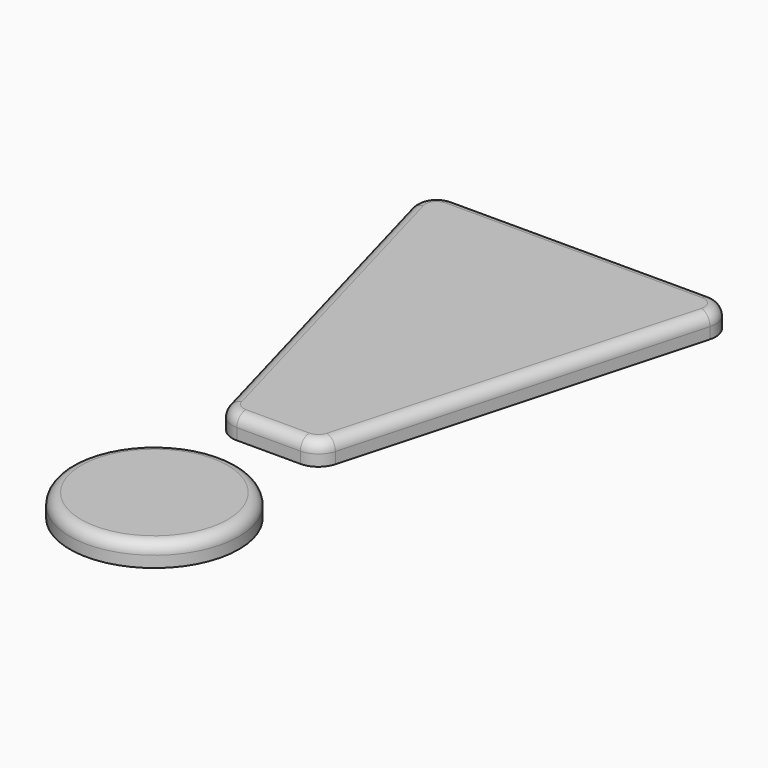
from build123d import *

# Parameters (mm, degrees)
F0_R     = 7.5
F1_DEPTH = 2
F2_R     = 1


with BuildPart() as f1:
    # F0 (on Top) → F1 (new body)
    with BuildSketch(Plane.XY):
        Circle(F0_R)
        with BuildLine():
            Line((11.369901, 47.5), (0, 47.5))
            Line((0, 47.5), (-11.369901, 47.5))
            ThreePointArc((-11.369901, 47.5), (-12.961897, 46.710598), (-13.297169, 44.965548))
            Line((-13.297169, 44.965548), (-4.74593, 14.129265))
            ThreePointArc((-4.74593, 14.129265), (-4.029261, 13.071721), (-2.818663, 12.663717))
            Line((-2.818663, 12.663717), (0, 12.663717))
            Line((0, 12.663717), (2.818663, 12.663717))
            ThreePointArc((2.818663, 12.663717), (4.029261, 13.071721), (4.74593, 14.129265))
            Line((4.74593, 14.129265), (13.297169, 44.965548))
            ThreePointArc((13.297169, 44.965548), (12.961897, 46.710598), (11.369901, 47.5))
        make_face()
    extrude(amount=F1_DEPTH)

    # F2
    f2_edges = [f1.edges().sort_by_distance(p)[0] for p in [
        (-9.021549, 29.547406, 2),
        (-7.5, 0, 2),
    ]]
    fillet(f2_edges, radius=F2_R)


solid = f1.part
